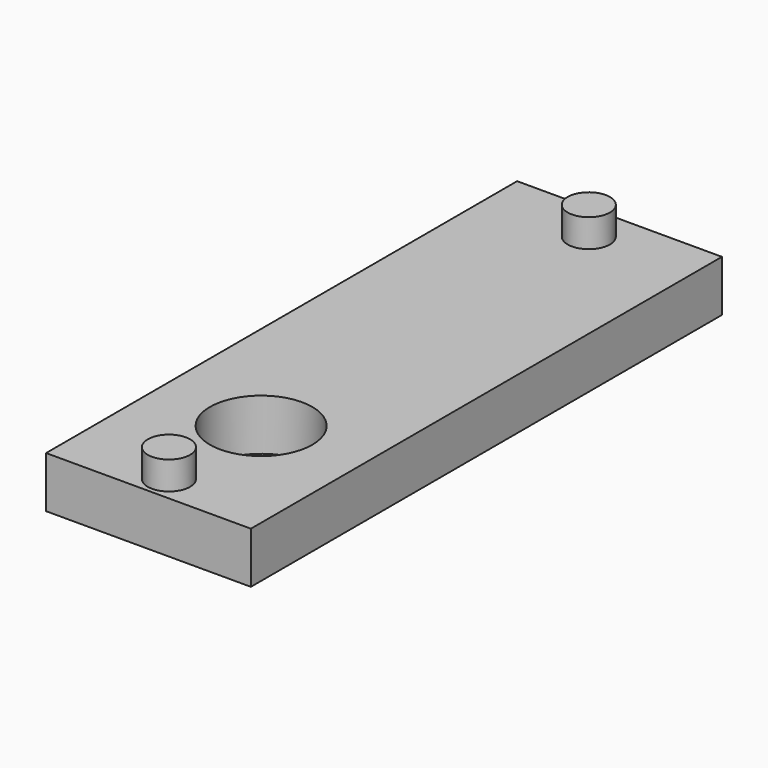
from build123d import *

# Parameters (mm, degrees)
F0_W     = 16
F0_H     = 46
F0_R     = 1.65
F0_R_2   = 4
F1_DEPTH = 4
F2_DEPTH = 6.2
F3_DEPTH = 2.2


with BuildPart() as f1:
    # F0 (on Top) → F1 (new body)
    with BuildSketch(Plane.XY):
        Rectangle(F0_W, F0_H)
        with Locations((0, -21)):
            Circle(F0_R, mode=Mode.SUBTRACT)
        with Locations((0, -12)):
            Circle(F0_R_2, mode=Mode.SUBTRACT)
        with Locations((0, 20)):
            Circle(F0_R, mode=Mode.SUBTRACT)
        with Locations((0, 20)):
            Circle(F0_R)
        with Locations((0, -21)):
            Circle(F0_R)
    extrude(amount=F1_DEPTH)

    # F0 (on Top) → F2 (join)
    with BuildSketch(Plane.XY):
        with Locations((0, 20)):
            Circle(F0_R)
        with Locations((0, -21)):
            Circle(F0_R)
    extrude(amount=F2_DEPTH)

    # F0 (on Top) → F3 (cut)
    with BuildSketch(Plane.XY):
        with Locations((0, -21)):
            Circle(F0_R)
        with Locations((0, 20)):
            Circle(F0_R)
    extrude(amount=F3_DEPTH, mode=Mode.SUBTRACT)


solid = f1.part
